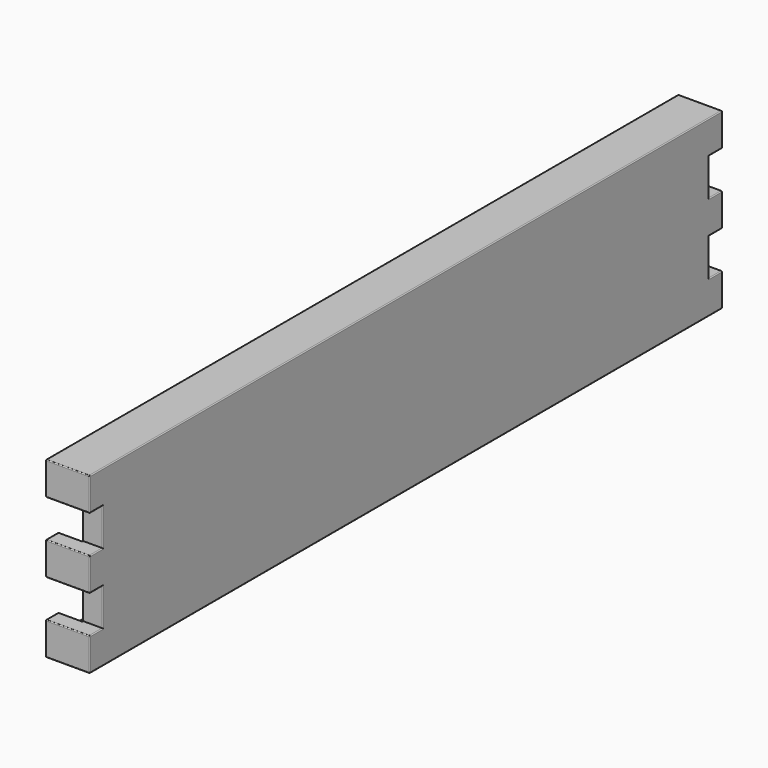
from build123d import *

# Parameters (mm, degrees)
SKETCH017_W            = 71.8
SKETCH017_H            = 15.8
PAD012_DEPTH           = 4
SKETCH018_W            = 69
SKETCH018_H            = 13
POCKET005_DEPTH        = 2.2
SKETCH019_R            = 3.255
SKETCH019_R_2          = 2.45
PAD013_DEPTH           = 2.2
LINEARPATTERN005_COUNT = 8
LINEARPATTERN005_PITCH = 8
SKETCH020_W            = 1.5
SKETCH020_H            = 3.4
POCKET006_DEPTH        = 5
LINEARPATTERN006_COUNT = 2
LINEARPATTERN006_PITCH = 70.3
FILLET005_R            = 0.08


with BuildPart() as part:
    # Sketch017 → Pad012 (new body)
    with BuildSketch(Plane.YZ):
        with Locations((-20, 0)):
            Rectangle(SKETCH017_W, SKETCH017_H)
    extrude(amount=PAD012_DEPTH)

    # Sketch018 (on Face5 of Pad012) → Pocket005 (cut)
    with BuildSketch(Plane(origin=(0, 0, 0), x_dir=(0, 1, 0), z_dir=(-1, 0, 0))):
        with Locations((-20, 0)):
            Rectangle(SKETCH018_W, SKETCH018_H)
    extrude(amount=-POCKET005_DEPTH, mode=Mode.SUBTRACT)

    # Sketch019 (on Face11 of Pocket005) → Pad013 (join)
    with BuildSketch(Plane(origin=(2.2, 0, 0), x_dir=(0, 1, 0), z_dir=(-1, 0, 0))):
        with Locations((8, 0)):
            Circle(SKETCH019_R)
        with Locations((8, 0)):
            Circle(SKETCH019_R_2, mode=Mode.SUBTRACT)
    pad013 = extrude(amount=PAD013_DEPTH)

    # LinearPattern005: Pad013 ×8
    with Locations(*[(0, -i * LINEARPATTERN005_PITCH, 0) for i in range(1, LINEARPATTERN005_COUNT)]):
        add(pad013)

    # Sketch020 (on Face5 of LinearPattern005) → Pocket006 (cut)
    with BuildSketch(Plane.YZ.offset(4)):
        with Locations((15.15, 3.2)):
            Rectangle(SKETCH020_W, SKETCH020_H)
        with Locations((15.15, -3.2)):
            Rectangle(SKETCH020_W, SKETCH020_H)
    pocket006 = extrude(amount=-POCKET006_DEPTH, mode=Mode.SUBTRACT)

    # LinearPattern006: Pocket006 ×2
    with Locations(*[(0, -i * LINEARPATTERN006_PITCH, 0) for i in range(1, LINEARPATTERN006_COUNT)]):
        add(pocket006, mode=Mode.SUBTRACT)

    # Fillet005
    fillet005_edges = [part.edges().sort_by_distance(p)[0] for p in [
        (2, -55.9, 7.9),
        (2, 15.9, 7.9),
        (0, -20, 7.9),
        (4, -20, 7.9),
        (2, 15.9, -7.9),
        (2, -55.9, -7.9),
        (0, -20, -7.9),
        (4, -20, -7.9),
        (1.1, 10.45, 0),
        (2.2, 5.55, 0),
        (0, 5.55, 0),
        (1.1, 2.45, 0),
        (2.2, -2.45, 0),
        (0, -2.45, 0),
        (1.1, -5.55, 0),
        (2.2, -10.45, 0),
        (0, -10.45, 0),
        (1.1, -13.55, 0),
        (2.2, -18.45, 0),
        (0, -18.45, 0),
        (1.1, -21.55, 0),
        (2.2, -26.45, 0),
        (0, -26.45, 0),
        (1.1, -29.55, 0),
        (2.2, -34.45, 0),
        (0, -34.45, 0),
        (1.1, -37.55, 0),
        (2.2, -42.45, 0),
        (0, -42.45, 0),
        (1.1, -45.55, 0),
        (2.2, -50.45, 0),
        (0, -50.45, 0),
        (4, 15.9, -6.4),
        (4, 15.15, -4.9),
        (4, 14.4, -3.2),
        (4, 15.15, -1.5),
        (4, 15.9, 0),
        (4, 15.15, 1.5),
        (4, 14.4, 3.2),
        (4, 15.15, 4.9),
        (4, 15.9, 6.4),
        (4, -55.9, 6.4),
        (4, -55.15, 4.9),
        (4, -54.4, 3.2),
        (4, -55.15, 1.5),
        (4, -55.9, 0),
        (4, -55.15, -1.5),
        (4, -54.4, -3.2),
        (4, -55.15, -4.9),
        (4, -55.9, -6.4),
        (0, -55.9, 6.4),
        (2, -55.9, 4.9),
        (0, -55.9, 0),
        (2, -55.9, 1.5),
        (2, -55.9, -1.5),
        (0, -55.9, -6.4),
        (2, -55.9, -4.9),
        (0, 15.9, -6.4),
        (2, 15.9, -4.9),
        (0, 15.9, 0),
        (2, 15.9, -1.5),
        (2, 15.9, 1.5),
        (0, 15.9, 6.4),
        (2, 15.9, 4.9),
        (1.1, -44.745, 0),
        (2.2, -51.255, 0),
        (0, -51.255, 0),
        (1.1, -36.745, 0),
        (2.2, -43.255, 0),
        (0, -43.255, 0),
        (1.1, -28.745, 0),
        (2.2, -35.255, 0),
        (0, -35.255, 0),
        (1.1, -20.745, 0),
        (2.2, -27.255, 0),
        (0, -27.255, 0),
        (1.1, -12.745, 0),
        (2.2, -19.255, 0),
        (0, -19.255, 0),
        (1.1, -4.745, 0),
        (2.2, -11.255, 0),
        (0, -11.255, 0),
        (1.1, 3.255, 0),
        (2.2, -3.255, 0),
        (0, -3.255, 0),
        (1.1, 11.255, 0),
        (2.2, 4.745, 0),
        (0, 4.745, 0),
        (1.1, 14.5, 6.5),
        (1.1, -54.5, 6.5),
        (0, -20, 6.5),
        (2.2, -20, 6.5),
        (1.1, -54.5, -6.5),
        (1.1, 14.5, -6.5),
        (0, -20, -6.5),
        (2.2, -20, -6.5),
        (0, 15.2, -4.9),
        (0, 14.5, -5.7),
        (0, -54.5, -5.7),
        (0, -55.2, -4.9),
        (0, -55.2, 4.9),
        (0, -54.5, 5.7),
        (0, 14.5, 5.7),
        (0, 15.2, 4.9),
        (0, -55.2, -1.5),
        (0, -54.5, 0),
        (0, -55.2, 1.5),
        (2.2, -54.5, -5.7),
        (2.2, -54.5, 5.7),
        (0, 15.2, 1.5),
        (0, 14.5, 0),
        (0, 15.2, -1.5),
        (2.2, 14.5, 5.7),
        (2.2, 14.5, 0),
        (2.2, 14.5, -5.7),
        (2.2, -54.5, 0),
    ]]
    fillet(fillet005_edges, radius=FILLET005_R)


with BuildPart() as part_1:
    # Body004 placement: moved
    add(part.part.moved(Location((-15.4, 0, 0))))


solid = part_1.part
